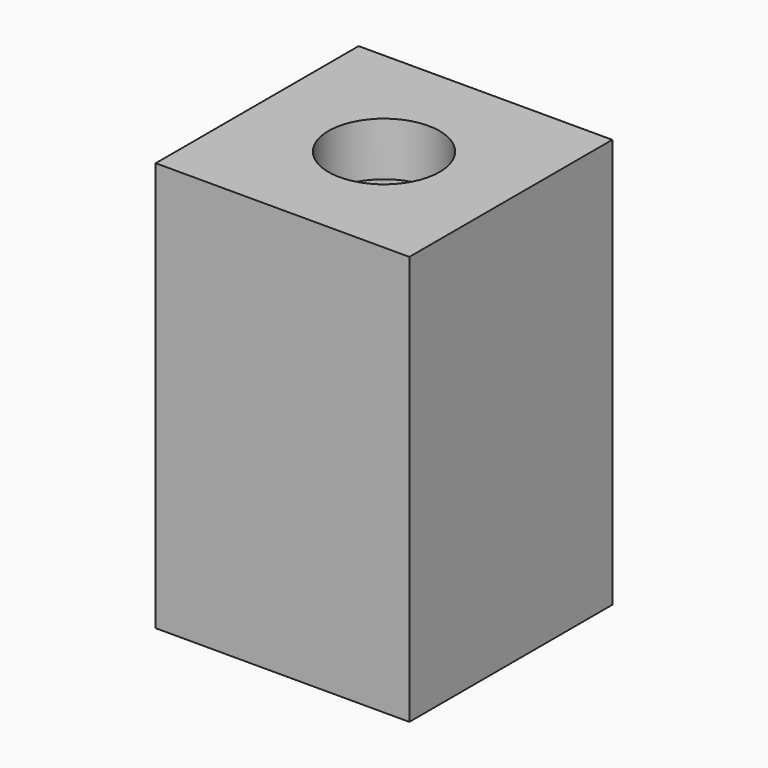
from build123d import *

# Parameters (mm, degrees)
F0_W     = 57
F0_H     = 57
F0_R     = 12.5
F1_DEPTH = 92
F2_DEPTH = 80
F3_DEPTH = 92.001


with BuildPart() as f1:
    # F0 (on Top) → F1 (new body)
    with BuildSketch(Plane.XY):
        Rectangle(F0_W, F0_H)
        Polygon((0, 23.5), (23.5, 23.5), (23.5, 0), (23.5, -23.5), (0, -23.5), (-23.5, -23.5), (-23.5, 0), (-23.5, 23.5), align=None, mode=Mode.SUBTRACT)
        with BuildLine():
            ThreePointArc((-23.5, 0), (-16.617009, 16.617009), (0, 23.5))
            Line((0, 23.5), (-23.5, 23.5))
            Line((-23.5, 23.5), (-23.5, 0))
        make_face()
        with BuildLine():
            Line((23.5, 0), (23.5, 23.5))
            Line((23.5, 23.5), (0, 23.5))
            ThreePointArc((0, 23.5), (16.617009, 16.617009), (23.5, 0))
        make_face()
        with BuildLine():
            Line((23.5, -23.5), (23.5, 0))
            ThreePointArc((23.5, 0), (16.617009, -16.617009), (0, -23.5))
            Line((0, -23.5), (23.5, -23.5))
        make_face()
        with BuildLine():
            ThreePointArc((0, -23.5), (-16.617009, -16.617009), (-23.5, 0))
            Line((-23.5, 0), (-23.5, -23.5))
            Line((-23.5, -23.5), (0, -23.5))
        make_face()
        with BuildLine():
            ThreePointArc((23.5, 0), (16.617009, 16.617009), (0, 23.5))
            ThreePointArc((0, 23.5), (-16.617009, 16.617009), (-23.5, 0))
            ThreePointArc((-23.5, 0), (-16.617009, -16.617009), (0, -23.5))
            ThreePointArc((0, -23.5), (16.617009, -16.617009), (23.5, 0))
        make_face()
        Circle(F0_R, mode=Mode.SUBTRACT)
        Circle(F0_R)
    extrude(amount=F1_DEPTH)

    # F0 (on Top) → F2 (cut)
    with BuildSketch(Plane.XY):
        with BuildLine():
            ThreePointArc((23.5, 0), (16.617009, 16.617009), (0, 23.5))
            ThreePointArc((0, 23.5), (-16.617009, 16.617009), (-23.5, 0))
            ThreePointArc((-23.5, 0), (-16.617009, -16.617009), (0, -23.5))
            ThreePointArc((0, -23.5), (16.617009, -16.617009), (23.5, 0))
        make_face()
        Circle(F0_R, mode=Mode.SUBTRACT)
        Circle(F0_R)
    extrude(amount=F2_DEPTH, mode=Mode.SUBTRACT)

    # F0 (on Top) → F3 (cut, through all)
    with BuildSketch(Plane.XY):
        Circle(F0_R)
    extrude(amount=F3_DEPTH, mode=Mode.SUBTRACT)


solid = f1.part
